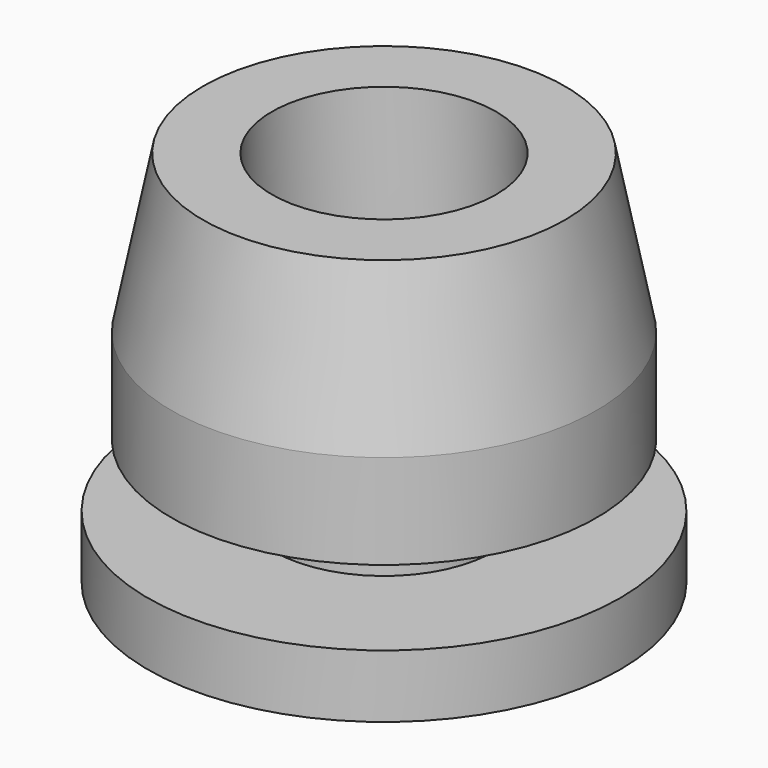
from build123d import *

# Parameters (mm, degrees)
F2_SIZE2       = 10
F2_SIZE        = 2
F4_D           = 8.8
F4_CBORE_D     = 14.25
F4_CBORE_DEPTH = 8


with BuildPart() as f1:
    # F0 (on Front) → F1 (revolve)
    with BuildSketch(Plane.XZ):
        Polygon((-15, 0), (0, 0), (0, 24), (-13.5, 24), (-13.5, 8), (-7, 8), (-7, 4), (-15, 4), align=None)
    revolve(axis=Axis((0, 0, 12), (0, 0, -1)))

    # F2
    f2_edges = [f1.edges().sort_by_distance(p)[0] for p in [
        (13.5, 0, 24),
    ]]
    chamfer(f2_edges, length=F2_SIZE, length2=F2_SIZE2)

    # F4 (through all)
    with Locations(Plane.XY.offset(24)):
        with Locations((0, 0)):
            CounterBoreHole(F4_D / 2, F4_CBORE_D / 2, F4_CBORE_DEPTH)


solid = f1.part
